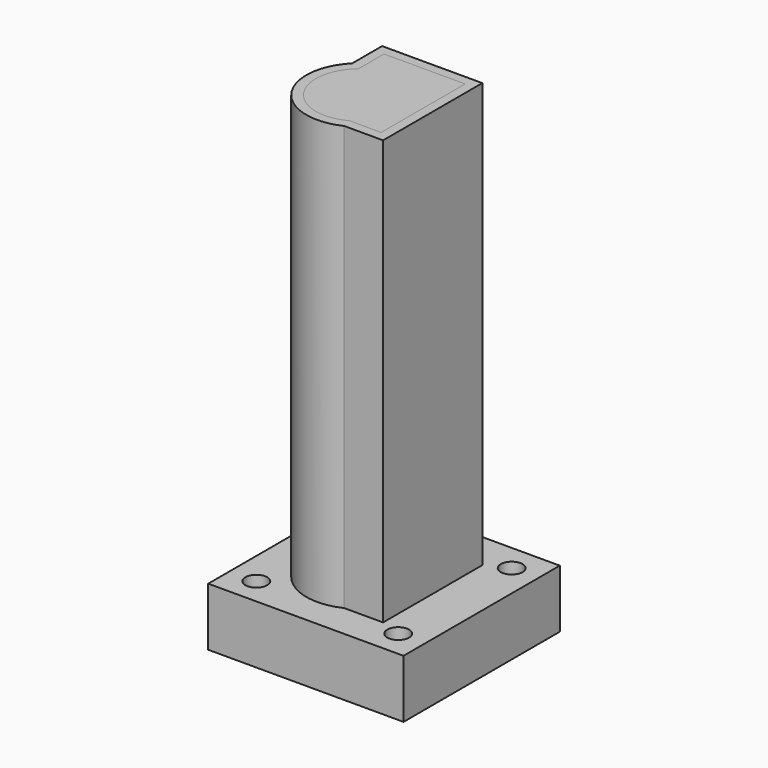
from build123d import *

# Parameters (mm, degrees)
F0_W      = 51.9938
F0_H      = 51.9938
F1_DEPTH  = 15.5
F2_R      = 2.9
F3_DEPTH  = 3
F4_R      = 1.65
F5_DEPTH  = 12.501
F6_R      = 1.65
F7_DEPTH  = 12.501
F8_R      = 1.65
F9_DEPTH  = 12.501
F10_R     = 1.65
F11_DEPTH = 12.501
F13_DEPTH = 113
F15_DEPTH = 128.501
F17_DEPTH = 3.1


with BuildPart() as f1:
    # F0 (on Top) → F1 (new body)
    with BuildSketch(Plane.XY):
        with Locations((25.9969, 25.9969)):
            Rectangle(F0_W, F0_H)
    extrude(amount=F1_DEPTH)

    # F2 (on face) → F3 (cut)
    with BuildSketch(Plane.XY.offset(15.5)):
        with Locations((7.112, 44.8818)):
            Circle(F2_R)
        with Locations((44.8818, 44.8818)):
            Circle(F2_R)
        with Locations((7.112, 7.112)):
            Circle(F2_R)
        with Locations((44.8818, 7.112)):
            Circle(F2_R)
    extrude(amount=-F3_DEPTH, mode=Mode.SUBTRACT)

    # F4 (on face) → F5 (cut, through all)
    with BuildSketch(Plane.XY.offset(12.5)):
        with Locations((7.112, 44.8818)):
            Circle(F4_R)
    extrude(amount=-F5_DEPTH, mode=Mode.SUBTRACT)

    # F6 (on face) → F7 (cut, through all)
    with BuildSketch(Plane.XY.offset(12.5)):
        with Locations((44.8818, 44.8818)):
            Circle(F6_R)
    extrude(amount=-F7_DEPTH, mode=Mode.SUBTRACT)

    # F8 (on face) → F9 (cut, through all)
    with BuildSketch(Plane.XY.offset(12.5)):
        with Locations((7.112, 7.112)):
            Circle(F8_R)
    extrude(amount=-F9_DEPTH, mode=Mode.SUBTRACT)

    # F10 (on face) → F11 (cut, through all)
    with BuildSketch(Plane.XY.offset(12.5)):
        with Locations((44.8818, 7.112)):
            Circle(F10_R)
    extrude(amount=-F11_DEPTH, mode=Mode.SUBTRACT)

    # F12 (on face) → F13 (join)
    with BuildSketch(Plane.XY.offset(15.5)):
        with BuildLine():
            Line((39.2938, 9.0678), (39.2938, 42.0878))
            Line((39.2938, 42.0878), (12.6238, 42.0878))
            Line((12.6238, 42.0878), (12.6238, 32.139773))
            ThreePointArc((12.6238, 32.139773), (11.114919, 13.764895), (28.943272, 9.0678))
            Line((28.943272, 9.0678), (39.2938, 9.0678))
        make_face()
    extrude(amount=F13_DEPTH)

    # F14 (on face) → F15 (cut, through all)
    with BuildSketch(Plane.XY.offset(128.5)):
        with BuildLine():
            Line((36.7538, 11.6078), (36.7538, 39.5478))
            Line((36.7538, 39.5478), (15.1638, 39.5478))
            Line((15.1638, 39.5478), (15.1638, 31.036067))
            ThreePointArc((15.1638, 31.036067), (13.057664, 15.420665), (28.346177, 11.6078))
            Line((28.346177, 11.6078), (36.7538, 11.6078))
        make_face()
    extrude(amount=-F15_DEPTH, mode=Mode.SUBTRACT)


with BuildPart() as f17:
    # F16 (on face) → F17 (new body)
    with BuildSketch(Plane.XY.offset(128.5)):
        with BuildLine():
            Line((36.7538, 39.5478), (15.1638, 39.5478))
            Line((15.1638, 39.5478), (15.1638, 31.036067))
            ThreePointArc((15.1638, 31.036067), (13.057664, 15.420665), (28.346177, 11.6078))
            Line((28.346177, 11.6078), (36.7538, 11.6078))
            Line((36.7538, 11.6078), (36.7538, 39.5478))
        make_face()
    extrude(amount=-F17_DEPTH)


solid = Compound([f1.part, f17.part])
